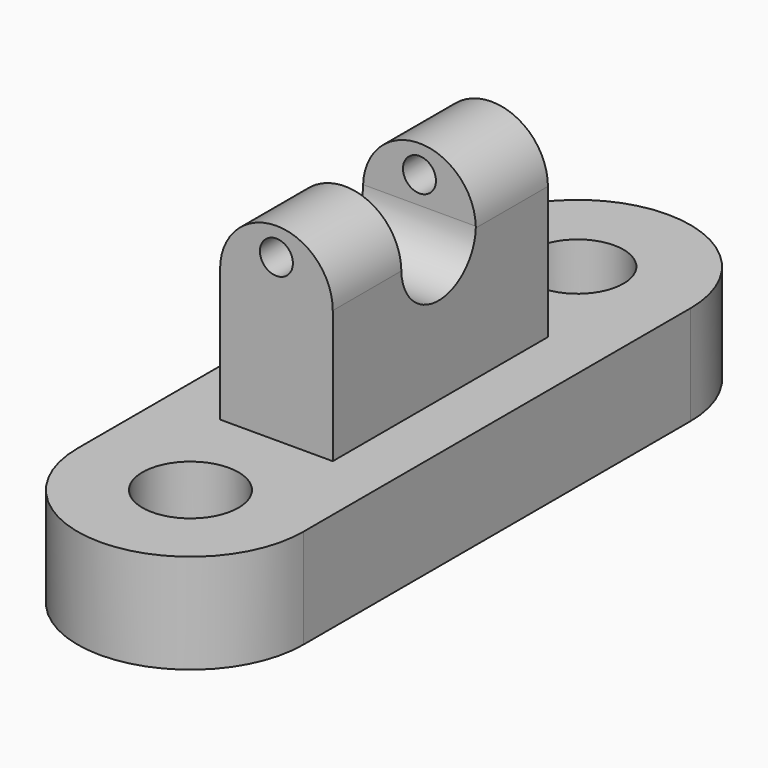
from build123d import *

# Parameters (mm, degrees)
F0_R      = 9.207917
F0_R_2    = 8.8097795002
F1_DEPTH  = 19.05
F2_W      = 21.5854309499
F2_H      = 51.5172295272
F3_DEPTH  = 25.4
F5_DEPTH  = 53.34
F7_DEPTH  = 25.4
F8_DEPTH  = 25.4
F9_W      = 17.8439589217
F9_H      = 25.0391028821
F10_DEPTH = 25.4
F11_DEPTH = 25.4
F12_R     = 3.1560406616
F13_DEPTH = 76.2


with BuildPart() as f1:
    # F0 (on Top) → F1 (new body)
    with BuildSketch(Plane.XY):
        with BuildLine():
            ThreePointArc((21.6257235091, 46.3394257879), (0, 67.965149297), (-21.6257235091, 46.3394257879))
            Line((-21.6257235091, 46.3394257879), (-21.6257235091, -46.3394257879))
            ThreePointArc((-21.6257235091, -46.3394257879), (0, -67.965149297), (21.6257235091, -46.3394257879))
            Line((21.6257235091, -46.3394257879), (21.6257235091, 46.3394257879))
        make_face()
        with Locations((0, -46.3394257879)):
            Circle(F0_R, mode=Mode.SUBTRACT)
        with Locations((0, 46.3394257879)):
            Circle(F0_R_2, mode=Mode.SUBTRACT)
    extrude(amount=F1_DEPTH)

    # F2 (on face) → F3 (join)
    with BuildSketch(Plane.XY.offset(19.05)):
        Rectangle(F2_W, F2_H)
    extrude(amount=F3_DEPTH)

    # F4 (on face) → F5 (join)
    with BuildSketch(Plane.XZ.offset(25.7586147636)):
        with BuildLine():
            Line((0, 44.45), (10.792715475, 44.45))
            ThreePointArc((10.792715475, 44.45), (0, 55.242715475), (-10.792715475, 44.45))
            Line((-10.792715475, 44.45), (0, 44.45))
        make_face()
    extrude(amount=-F5_DEPTH)

    # F6 (on Right) → F7 (cut)
    with BuildSketch(Plane.YZ):
        Polygon((25.7586147636, 59.1440834105), (25.7586147636, 44.753793627), (25.7586147636, 35.5440117419), (39.5732931793, 35.5440117419), (39.5732931793, 59.1440834105), align=None)
    extrude(amount=-F7_DEPTH, mode=Mode.SUBTRACT)

    # F6 (on Right) → F8 (cut)
    with BuildSketch(Plane.YZ):
        Polygon((25.7586147636, 59.1440834105), (25.7586147636, 44.753793627), (25.7586147636, 35.5440117419), (39.5732931793, 35.5440117419), (39.5732931793, 59.1440834105), align=None)
    extrude(amount=F8_DEPTH, mode=Mode.SUBTRACT)

    # F9 (on Right) → F10 (cut)
    with BuildSketch(Plane.YZ):
        with Locations((-0.4317085259, 57.2733450681)):
            Rectangle(F9_W, F9_H)
        with BuildLine():
            Line((8.490270935, 44.753793627), (-9.3536879867, 44.753793627))
            ThreePointArc((-9.3536879867, 44.753793627), (-0.4317085259, 35.8318141662), (8.490270935, 44.753793627))
        make_face()
    extrude(amount=-F10_DEPTH, mode=Mode.SUBTRACT)

    # F9 (on Right) → F11 (cut)
    with BuildSketch(Plane.YZ):
        with Locations((-0.4317085259, 57.2733450681)):
            Rectangle(F9_W, F9_H)
        with BuildLine():
            Line((8.490270935, 44.753793627), (-9.3536879867, 44.753793627))
            ThreePointArc((-9.3536879867, 44.753793627), (-0.4317085259, 35.8318141662), (8.490270935, 44.753793627))
        make_face()
    extrude(amount=F11_DEPTH, mode=Mode.SUBTRACT)

    # F12 (on face) → F13 (cut)
    with BuildSketch(Plane.XZ.offset(25.7586147636)):
        with Locations((0, 49.9343015254)):
            Circle(F12_R)
    extrude(amount=-F13_DEPTH, mode=Mode.SUBTRACT)


solid = f1.part
